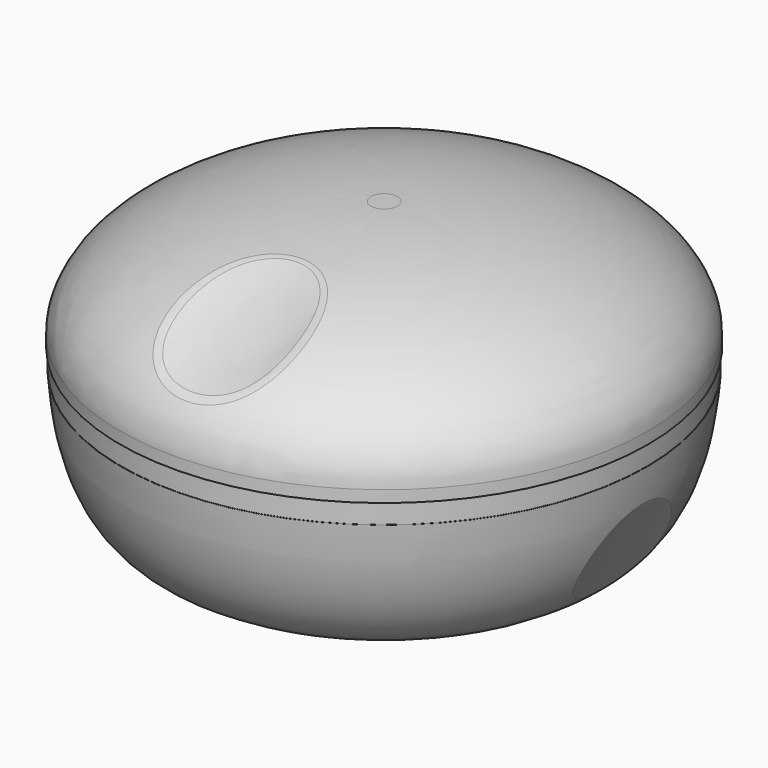
from build123d import *

# Parameters (mm, degrees)
F2_DEPTH  = 6.4135
F1_W      = 4.572
F1_H      = 1.397
F3_DEPTH  = 3.556
F0_W      = 1.5
F0_H      = 1.5663710656
F5_W      = 5.5405606754
F5_H      = 2
F5_W_2    = 5.2343517082
F6_DEPTH  = 22
F7_W      = 1.294826597
F7_H      = 1.7666036729
F10_DEPTH = 7.5
F5_W_3    = 2
F5_H_2    = 13.227
F11_DEPTH = 2
F5_W_4    = 12.4850876164
F12_DEPTH = 1
F13_DEPTH = 3.6
F17_DEPTH = 50
F18_R     = 3
F19_W     = 1.2875391773
F19_H     = 3.175
F24_DEPTH = 35


with BuildPart() as f2:
    # F1 (on Front) → F2 (new body, symmetric)
    with BuildSketch(Plane.XZ):
        Polygon((-17.018, -11.176), (-17.018, -25.818), (5.842, -25.818), (5.842, -11.176), (10.668, -11.176), (10.668, -8.636), (5.842, -8.636), (5.842, 0), (2.286, 0), (-2.286, 0), (-5.842, 0), (-5.842, -4.318), (-17.018, -4.318), (-17.018, -8.636), (-22.098, -8.636), (-22.098, -11.176), align=None)
    extrude(amount=F2_DEPTH, both=True)

    # F1 (on Front) → F3 (join, symmetric)
    with BuildSketch(Plane.XZ):
        with Locations((0, 0.6985)):
            Rectangle(F1_W, F1_H)
        with Locations((0, 2.0955)):
            Rectangle(F1_W, F1_H)
    extrude(amount=F3_DEPTH, both=True)

    # F1 (on Front) → F13 (join, symmetric)
    with BuildSketch(Plane.XZ):
        Polygon((2.286, 2.794), (2.286, 1.397), (3.7302627534, 1.397), (3.7302627534, 3.882), (-3.4697372466, 3.882), (-3.4697372466, 1.397), (-2.286, 1.397), (-2.286, 2.794), align=None)
        Polygon((-3.4697372466, 3.882), (3.7302627534, 3.882), (3.7302627534, 5.482), (-14.9741563946, 5.482), (-14.9741563946, 3.882), align=None)
    extrude(amount=F13_DEPTH, both=True)


with BuildPart() as f4:
    # F0 (on Front) → F4 (revolve)
    with BuildSketch(Plane.XZ):
        with BuildLine():
            Line((24.9327979982, -23), (0, -23))
            Line((0, -23), (0, -26))
            Line((0, -26), (24.8083844781, -26))
            add(Edge.make_bspline(
                [(24.8083844781, -26), (34.1162409573, -26), (38.6708000527, -17.5418054465), (39.5350945305, -4.75)],
                knots=[0, 0, 0, 0, 26.7676633272, 26.7676633272, 26.7676633272, 26.7676633272], degree=3))
            Line((39.5350945305, -4.75), (38.1886657653, -4.75))
            Line((38.1886657653, -4.75), (38.1886657653, 0))
            Line((38.1886657653, 0), (36.6886657653, 0))
            add(Edge.make_bspline(
                [(24.9327979982, -23), (36.3583606501, -23), (36.6886657653, -7.2645917546), (36.6886657653, 0)],
                knots=[0, 0, 0, 0, 25.8302231302, 25.8302231302, 25.8302231302, 25.8302231302], degree=3))
        make_face()
        with Locations((37.4386657653, 0.7831855328)):
            Rectangle(F0_W, F0_H)
    revolve(axis=Axis((0, 0, 12.485653162), (0, 0, 1)))

    # F5 (on face) → F6 (join)
    with BuildSketch(Plane.XY.offset(-23)):
        with Locations((-14.4477196623, -7.6135)):
            Rectangle(F5_W, F5_H)
        with Locations((-14.4477196623, 7.6135)):
            Rectangle(F5_W, F5_H)
        with Locations((3.4248241459, 7.6135)):
            Rectangle(F5_W_2, F5_H)
        with Locations((3.4248241459, -7.6135)):
            Rectangle(F5_W_2, F5_H)
    extrude(amount=F6_DEPTH)

    # F5 (on face) → F11 (join)
    with BuildSketch(Plane.XY.offset(-23)):
        with Locations((7.042, 0)):
            Rectangle(F5_W_3, F5_H_2)
        with Locations((7.042, -7.6135)):
            Rectangle(F5_W_3, F5_H)
        with Locations((7.042, 7.6135)):
            Rectangle(F5_W_3, F5_H)
    extrude(amount=F11_DEPTH)

    # F5 (on face) → F12 (join)
    with BuildSketch(Plane.XY.offset(-23)):
        with Locations((-5.4348955164, -7.6135)):
            Rectangle(F5_W_4, F5_H)
        with Locations((-5.4348955164, 7.6135)):
            Rectangle(F5_W_4, F5_H)
        Polygon((-17.218, -8.6135), (-17.218, -6.6135), (-17.218, 6.6135), (-17.218, 8.6135), (-19.218, 8.6135), (-19.218, -8.6135), align=None)
    extrude(amount=F12_DEPTH)

    # F23 (on line) → F24 (cut)
    with BuildSketch(Plane(origin=(-5.6005503777, 0, -12.1833906153), x_dir=(0.9085982794, 0, -0.4176711227), z_dir=(0.4176711227, 0, 0.9085982794))):
        with BuildLine():
            add(Edge.make_bspline(
                [(45.4922616482, 25), (35.0999568028, 25), (40.2961092255, -12.5), (45.4922616482, -50), (50.6884140709, -12.5), (55.8845664936, 25), (45.4922616482, 25)],
                knots=[0, 0, 0, 2.0943951024, 2.0943951024, 4.1887902048, 4.1887902048, 6.2831853072, 6.2831853072, 6.2831853072], degree=2, weights=[1, 0.5, 1, 0.5, 1, 0.5, 1]))
        make_face()
    extrude(amount=F24_DEPTH, mode=Mode.SUBTRACT)


with BuildPart() as f8:
    # F7 (on Front) → F8 (revolve)
    with BuildSketch(Plane.XZ):
        with Locations((39.0412524668, -0.8833018364)):
            Rectangle(F7_W, F7_H)
        with BuildLine():
            Line((1.9791810773, 17.5), (0, 17.5))
            Line((0, 17.5), (0, 15))
            add(Edge.make_bspline(
                [(0, 15), (16.4740710249, 15), (33.31576991, 10.7723911894), (36.2424086157, 2.5778216077)],
                knots=[0, 0, 0, 0, 36.0323976207, 36.0323976207, 36.0323976207, 36.0323976207], degree=3))
            Line((36.2424086157, 2.5778216077), (38.3938391683, 2.5778216077))
            Line((38.3938391683, 2.5778216077), (38.3938391683, 0))
            Line((38.3938391683, 0), (39.6886657653, 0))
            add(Edge.make_bspline(
                [(1.9791810773, 17.5), (22.9642849637, 17.5), (39.6886657653, 9.3534307705), (39.6886657653, 0)],
                knots=[0, 0, 0, 0, 41.5722892734, 41.5722892734, 41.5722892734, 41.5722892734], degree=3))
        make_face()
    revolve(axis=Axis((0, 0, 12.485653162), (0, 0, 1)))

    # F9 (on Front) → F10 (join, symmetric)
    with BuildSketch(Plane.XZ):
        Polygon((-7.273943428, 7.0159047617), (-3.81, 7.0159047617), (-3.81, 13), (3.81, 13), (3.81, 7.0159047617), (7.273943428, 7.0159047617), (7.273943428, 15.2057409286), (-7.273943428, 15.2057409286), align=None)
    extrude(amount=F10_DEPTH, both=True)

    # F16 (on line) → F17 (cut)
    with BuildSketch(Plane(origin=(0, -40.9677268296, -18.7843291844), x_dir=(1, 0, 0), z_dir=(0, -0.9090021648, -0.416791392))):
        with BuildLine():
            add(Edge.make_bspline(
                [(11, 24.1534521521), (11, 28.916591873), (-5.5, 26.5350220126), (-22, 24.1534521521), (-5.5, 21.7718822917), (11, 19.3903124313), (11, 24.1534521521)],
                knots=[0, 0, 0, 2.0943951024, 2.0943951024, 4.1887902048, 4.1887902048, 6.2831853072, 6.2831853072, 6.2831853072], degree=2, weights=[1, 0.5, 1, 0.5, 1, 0.5, 1]))
        make_face()
    extrude(amount=-F17_DEPTH, mode=Mode.SUBTRACT)

    # F18
    f18_edges = [f8.edges().sort_by_distance(p)[0] for p in [
        (-7.925971, -22.256879, 14.2685),
    ]]
    fillet(f18_edges, radius=F18_R)


with BuildPart() as f20:
    # F19 (on Front) → F20 (revolve)
    with BuildSketch(Plane.XZ):
        with Locations((38.8561600249, -3.1625000049)):
            Rectangle(F19_W, F19_H)
    revolve(axis=Axis((0, 0, 12.485653162), (0, 0, 1)))


solid = Compound([f2.part, f4.part, f8.part, f20.part])
